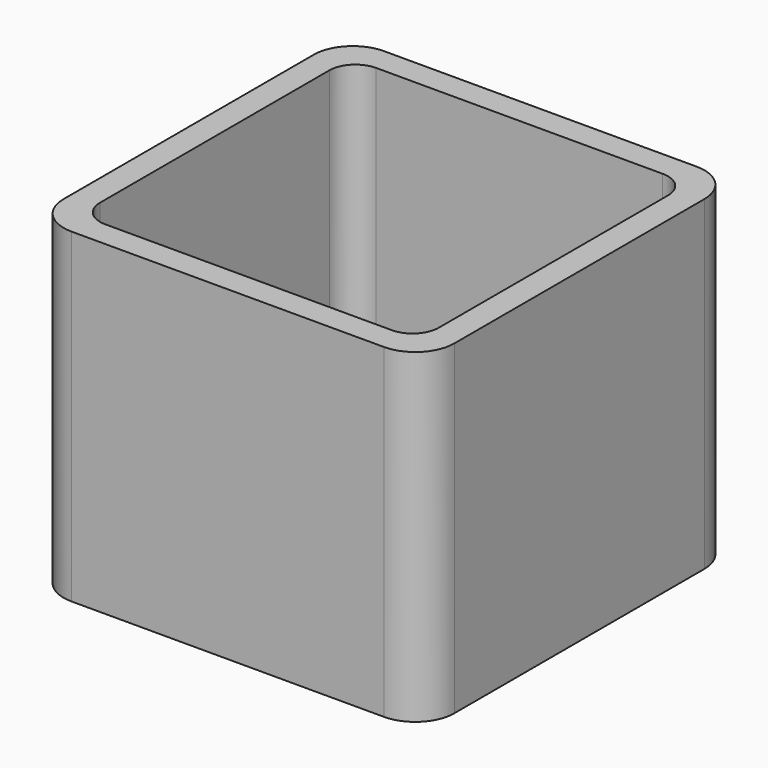
from build123d import *

# Parameters (mm, degrees)
EXTRUDE_DEPTH = 50


with BuildPart() as part:
    # Sketch → Extrude (new body)
    with BuildSketch(Plane.XY):
        with BuildLine():
            Line((-24, 30), (24, 30))
            ThreePointArc((30, 24), (28.242641, 28.242641), (24, 30))
            Line((30, 24), (30, -24))
            ThreePointArc((24, -30), (28.242641, -28.242641), (30, -24))
            Line((24, -30), (-24, -30))
            ThreePointArc((-30, -24), (-28.242641, -28.242641), (-24, -30))
            Line((-30, -24), (-30, 24))
            ThreePointArc((-24, 30), (-28.242641, 28.242641), (-30, 24))
        make_face()
        with BuildLine():
            Line((-22, 26), (22, 26))
            ThreePointArc((26, 22), (24.828427, 24.828427), (22, 26))
            Line((26, 22), (26, -22))
            ThreePointArc((22, -26), (24.828427, -24.828427), (26, -22))
            Line((22, -26), (-22, -26))
            ThreePointArc((-26, -22), (-24.828427, -24.828427), (-22, -26))
            Line((-26, -22), (-26, 22))
            ThreePointArc((-22, 26), (-24.828427, 24.828427), (-26, 22))
        make_face(mode=Mode.SUBTRACT)
    extrude(amount=EXTRUDE_DEPTH)


solid = part.part
